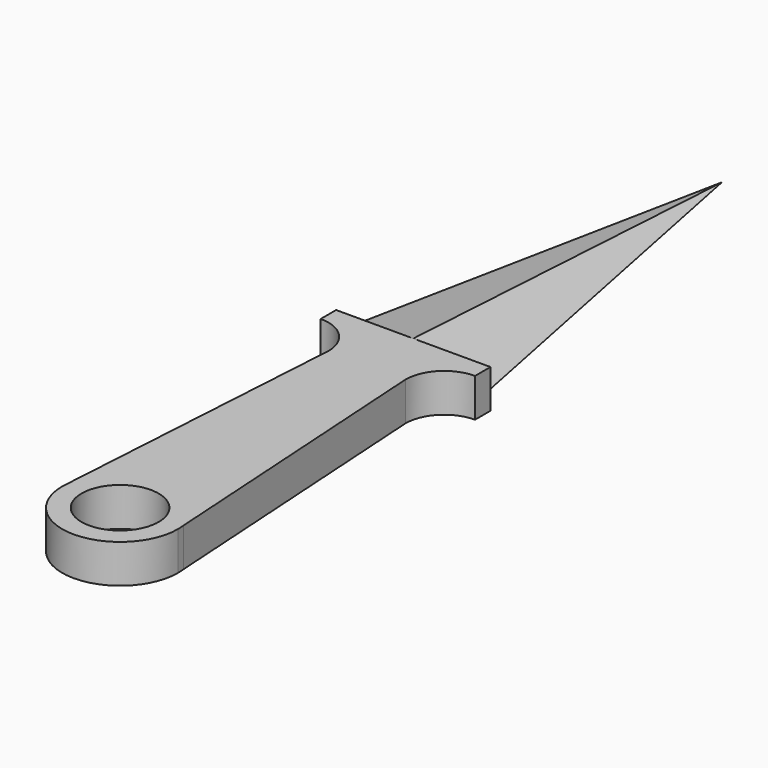
from build123d import *

# Parameters (mm, degrees)
F1_DEPTH = 6.35


with BuildPart() as f1:
    # F0 (on Top) → F1 (new body, symmetric)
    with BuildSketch(Plane.XY):
        with BuildLine():
            Line((-12.7, 38.7963913381), (12.7, 38.7963913381))
            ThreePointArc((12.7, 38.7963913381), (16.4197438789, 47.7766474592), (25.4, 51.4963913381))
            Line((25.4, 51.4963913381), (25.4, 57.8463913381))
            Line((25.4, 57.8463913381), (0, 57.8463913381))
            Line((0, 57.8463913381), (-25.4, 57.8463913381))
            Line((-25.4, 57.8463913381), (-25.4, 51.4963913381))
            ThreePointArc((-25.4, 51.4963913381), (-16.4197438789, 47.7766474592), (-12.7, 38.7963913381))
        make_face()
        with BuildLine():
            ThreePointArc((-12.7, -48.6045770048), (0, -43.7536086619), (12.7, -48.6045770048))
            Line((12.7, -48.6045770048), (12.7, 38.7963913381))
            Line((12.7, 38.7963913381), (-12.7, 38.7963913381))
            Line((-12.7, 38.7963913381), (-12.7, -48.6045770048))
        make_face()
        with BuildLine():
            ThreePointArc((-18.9017509728, -60.4316242261), (-16.8712011318, -53.9568537557), (-12.7, -48.6045770048))
            Line((-12.7, -48.6045770048), (-12.7, 38.7963913381))
            Line((-12.7, 38.7963913381), (-18.9017509728, -60.4316242261))
        make_face()
        with BuildLine():
            Line((12.7, 38.7963913381), (12.7, -48.6045770048))
            ThreePointArc((12.7, -48.6045770048), (16.8712011318, -53.9568537557), (18.9017509728, -60.4316242261))
            Line((18.9017509728, -60.4316242261), (12.7, 38.7963913381))
        make_face()
        with BuildLine():
            Line((12.7, -48.6045770048), (12.7, -62.8036086619))
            ThreePointArc((12.7, -62.8036086619), (0, -75.5036086619), (-12.7, -62.8036086619))
            Line((-12.7, -62.8036086619), (-12.7, -48.6045770048))
            ThreePointArc((-12.7, -48.6045770048), (-16.8712011318, -53.9568537557), (-18.9017509728, -60.4316242261))
            Line((-18.9017509728, -60.4316242261), (-19.05, -62.8036086619))
            ThreePointArc((-19.05, -62.8036086619), (0, -81.8536086619), (19.05, -62.8036086619))
            Line((19.05, -62.8036086619), (18.9017509728, -60.4316242261))
            ThreePointArc((18.9017509728, -60.4316242261), (16.8712011318, -53.9568537557), (12.7, -48.6045770048))
        make_face()
        with BuildLine():
            ThreePointArc((-12.7, -62.8036086619), (0, -50.1036086619), (12.7, -62.8036086619))
            Line((12.7, -62.8036086619), (12.7, -48.6045770048))
            ThreePointArc((12.7, -48.6045770048), (0, -43.7536086619), (-12.7, -48.6045770048))
            Line((-12.7, -48.6045770048), (-12.7, -62.8036086619))
        make_face()
    extrude(amount=F1_DEPTH, both=True)


with BuildPart() as f13:
    # F6 (on 3pt) → F13 section 0
    with BuildSketch(Plane(origin=(2.1695585838, 0.4339117168, 8.6782343351), x_dir=(0.9702136641, -0.0120974272, -0.2419485447), z_dir=(-0.2422507916, -0.0484501583, -0.9690031662))):
        Polygon((-2.2361657685, -57.457114777), (-2.2361657685, -184.6157656821), (23.943634558, -57.7742186446), align=None)
    # F12 (on 3pt) → F13 section 1
    with BuildSketch(Plane(origin=(-2.1695585838, 0.4339117168, -8.6782343351), x_dir=(0.9702136641, 0.0120974272, -0.2419485447), z_dir=(-0.2422507916, 0.0484501583, -0.9690031662))):
        Polygon((2.2361657685, -184.6157656821), (2.2361657685, -57.457114777), (-23.943634558, -57.7742186446), align=None)
    loft()


solid = Compound([f1.part, f13.part])
